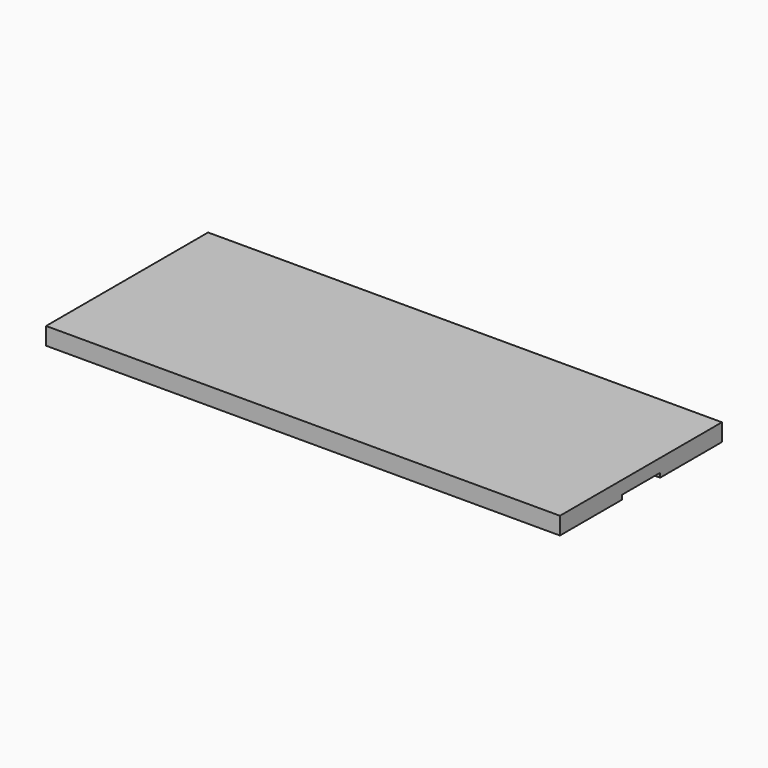
from build123d import *

# Parameters (mm, degrees)
BOX013_W     = 4
BOX013_H     = 1.1
BOX013_DEPTH = 0.1
BOX012_W     = 4
BOX012_H     = 1.1
BOX012_DEPTH = 0.1
BOX011_W     = 11.8
BOX011_H     = 4.65
BOX011_DEPTH = 0.4


with BuildPart() as cube011:
    # Box013 → Box013 (new body)
    with BuildSketch(Plane(origin=(-6.3, -0.55, 0), x_dir=(1, 0, 0), z_dir=(0, 0, 1))):
        with Locations((2, 0.55)):
            Rectangle(BOX013_W, BOX013_H)
    extrude(amount=BOX013_DEPTH)


with BuildPart() as cube010:
    # Box012 → Box012 (new body)
    with BuildSketch(Plane(origin=(2.3, -0.55, 0), x_dir=(1, 0, 0), z_dir=(0, 0, 1))):
        with Locations((2, 0.55)):
            Rectangle(BOX012_W, BOX012_H)
    extrude(amount=BOX012_DEPTH)


with BuildPart() as base:
    # Box011 → Box011 (new body)
    with BuildSketch(Plane(origin=(-5.9, -2.325, 0), x_dir=(1, 0, 0), z_dir=(0, 0, 1))):
        with Locations((5.9, 2.325)):
            Rectangle(BOX011_W, BOX011_H)
    extrude(amount=BOX011_DEPTH)

    # Cut003: cut Cube010
    add(cube010.part, mode=Mode.SUBTRACT)

    # Cut002: cut Cube011
    add(cube011.part, mode=Mode.SUBTRACT)


solid = base.part
